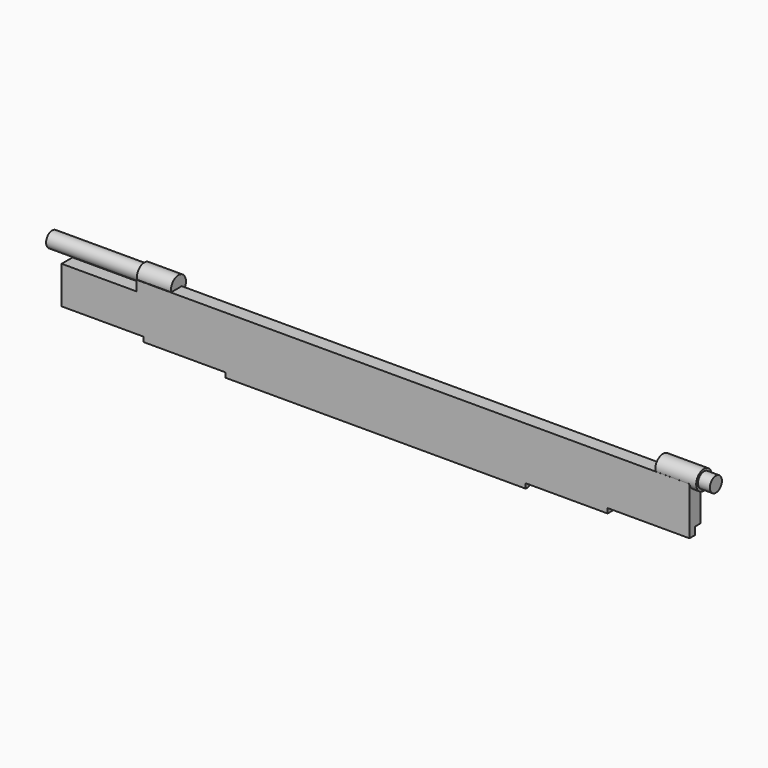
from build123d import *

# Parameters (mm, degrees)
PAD_DEPTH    = 2
SKETCH001_R  = 1.425
PAD001_DEPTH = 1
SKETCH002_R  = 1.425
PAD002_DEPTH = 5
SKETCH003_R  = 1.1
PAD003_DEPTH = 1.75
SKETCH004_R  = 1.375
PAD004_DEPTH = 5
SKETCH005_R  = 1.125
PAD005_DEPTH = 13.5
SKETCH006_W  = 92
SKETCH006_H  = 2.5
POCKET_DEPTH = 1
CHAMFER_SIZE = 0.5


with BuildPart() as part:
    # Sketch → Pad (new body)
    with BuildSketch(Plane.XZ):
        Polygon((0, 1.4), (12, 1.4), (12, 0.7), (24, 0.7), (24, 0), (68, 0), (68, 0.7), (80, 0.7), (80, 1.4), (92, 1.4), (92, 8.4), (11, 8.4), (11, 6.9), (0, 6.9), align=None)
    extrude(amount=PAD_DEPTH)

    # Sketch001 (on Face10 of Pad) → Pad001 (join)
    with BuildSketch(Plane(origin=(92, 0, 0), x_dir=(0, 0, 1), z_dir=(1, 0, 0))):
        with Locations((8.7, 0.6)):
            Circle(SKETCH001_R)
    extrude(amount=PAD001_DEPTH)

    # Sketch002 (on Face14 of Pad001) → Pad002 (join)
    with BuildSketch(Plane(origin=(92, 0, 0), x_dir=(0, 0, 1), z_dir=(1, 0, 0))):
        with Locations((8.7, 0.6)):
            Circle(SKETCH002_R)
    extrude(amount=-PAD002_DEPTH)

    # Sketch003 (on Face19 of Pad002) → Pad003 (join)
    with BuildSketch(Plane(origin=(93, 0, 0), x_dir=(0, 0, 1), z_dir=(1, 0, 0))):
        with Locations((8.7, 0.6)):
            Circle(SKETCH003_R)
    extrude(amount=PAD003_DEPTH)

    # Sketch004 (on Face18 of Pad003) → Pad004 (join)
    with BuildSketch(Plane(origin=(11, 0, 0), x_dir=(0, 0, -1), z_dir=(-1, 0, 0))):
        with Locations((-8.7, 0.6)):
            Circle(SKETCH004_R)
    extrude(amount=-PAD004_DEPTH)

    # Sketch005 (on Face23 of Pad004) → Pad005 (join)
    with BuildSketch(Plane(origin=(11, 0, 0), x_dir=(0, 0, -1), z_dir=(-1, 0, 0))):
        with Locations((-8.7, 0.6)):
            Circle(SKETCH005_R)
    extrude(amount=PAD005_DEPTH)

    # Sketch006 (on Face4 of Pad005) → Pocket (cut)
    with BuildSketch(Plane(origin=(0, 0, 0), x_dir=(1, 0, 0), z_dir=(0, 1, 0))):
        with Locations((46, -1.25)):
            Rectangle(SKETCH006_W, SKETCH006_H)
    extrude(amount=-POCKET_DEPTH, mode=Mode.SUBTRACT)

    # Chamfer
    chamfer_edges = [part.edges().sort_by_distance(p)[0] for p in [
        (46, -1, 0),
    ]]
    chamfer(chamfer_edges, length=CHAMFER_SIZE)


solid = part.part
